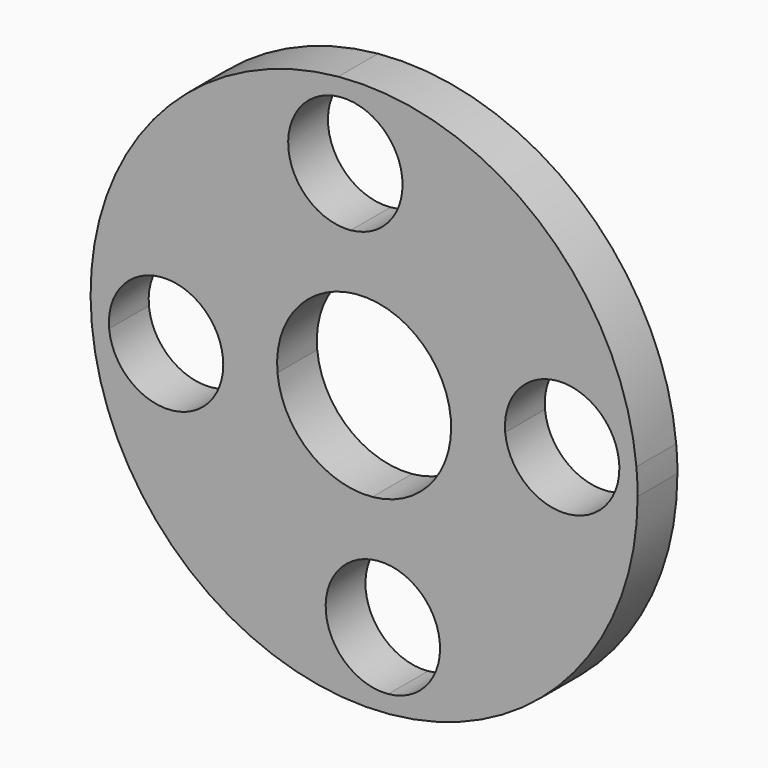
from build123d import *

# Parameters (mm, degrees)
F1_DEPTH = 1


with BuildPart() as f1:
    # F0 (on Front) → F1 (new body)
    with BuildSketch(Plane.XZ):
        with BuildLine():
            ThreePointArc((-5.4755023983, -0.5185301207), (-3.5051087117, -4.2384210408), (0.5185301207, -5.4755023983))
            ThreePointArc((0.5185301207, -5.4755023983), (-1.1162060212, -4.123600864), (0.2356955176, -2.4888647257))
            ThreePointArc((0.2356955176, -2.4888647257), (-1.593231229, -1.9265550215), (-2.4888647264, -0.2356955103))
            ThreePointArc((-2.4888647264, -0.2356955103), (-2.4838547844, -0.3063252949), (-2.4821835624, -0.3771128151))
            ThreePointArc((-2.4821835624, -0.3771128151), (-3.9113960418, -1.875441593), (-5.4755023983, -0.5185301207))
        make_face()
        with BuildLine():
            ThreePointArc((-0.2356955143, 2.488864726), (-1.8704316512, 3.8407662592), (-0.5185301207, 5.4755023983))
            ThreePointArc((-0.5185301207, 5.4755023983), (-4.2384210408, 3.5051087117), (-5.4755023983, -0.5185301207))
            ThreePointArc((-5.4755023983, -0.5185301207), (-4.1236008676, 1.1162060209), (-2.4888647264, -0.2356955103))
            ThreePointArc((-2.4888647264, -0.2356955103), (-1.9265550204, 1.5932312303), (-0.2356955143, 2.488864726))
        make_face()
        with BuildLine():
            ThreePointArc((2.4888647264, 0.2356955103), (3.8407662572, 1.870431651), (5.4755023983, 0.5185301207))
            ThreePointArc((5.4755023983, 0.5185301207), (3.5051087117, 4.2384210408), (-0.5185301207, 5.4755023983))
            ThreePointArc((-0.5185301207, 5.4755023983), (0.6323112885, 5.0917163376), (1.1228871849, 3.9821835624))
            ThreePointArc((1.1228871849, 3.9821835624), (0.7324199585, 2.9727594571), (-0.2356955143, 2.488864726))
            ThreePointArc((-0.2356955143, 2.488864726), (1.5932312303, 1.9265550204), (2.4888647264, 0.2356955103))
        make_face()
        with BuildLine():
            ThreePointArc((0.5185301207, -5.4755023983), (4.0682868424, -3.7012217129), (5.5, 0))
            ThreePointArc((5.5, 0), (5.4938721859, 0.2595542422), (5.4755023983, 0.5185301207))
            ThreePointArc((5.4755023983, 0.5185301207), (5.4805123404, 0.4479003357), (5.4821835624, 0.3771128151))
            ThreePointArc((5.4821835624, 0.3771128151), (4.0529710825, -1.1212159629), (2.4888647264, 0.2356955103))
            ThreePointArc((2.4888647264, 0.2356955103), (2.4972146299, 0.1179792015), (2.5, 0))
            ThreePointArc((2.5, 0), (1.8492212948, -1.6823735028), (0.2356955176, -2.4888647257))
            ThreePointArc((0.2356955176, -2.4888647257), (1.3865369216, -2.87265079), (1.8771128151, -3.9821835624))
            ThreePointArc((1.8771128151, -3.9821835624), (1.4866455903, -4.9916076659), (0.5185301207, -5.4755023983))
        make_face()
        with BuildLine():
            Line((-5.1270613366, -0.4855327494), (-5.4755023983, -0.5185301207))
            ThreePointArc((-5.4755023983, -0.5185301207), (-3.9113960418, -1.875441593), (-2.4821835624, -0.3771128151))
            ThreePointArc((-2.4821835624, -0.3771128151), (-2.4838547844, -0.3063252949), (-2.4888647264, -0.2356955103))
            Line((-2.4888647265, -0.2356955094), (-2.8373057882, -0.2686928807))
            ThreePointArc((-2.8373057882, -0.2686928807), (-2.8334648326, -0.3228423826), (-2.8321835624, -0.3771128151))
            ThreePointArc((-2.8321835624, -0.3771128151), (-3.9279131299, -1.5258315448), (-5.1270613366, -0.4855327494))
        make_face()
        with BuildLine():
            ThreePointArc((-2.4888647264, -0.2356955103), (-4.1236008676, 1.1162060209), (-5.4755023983, -0.5185301207))
            Line((-5.4755023983, -0.5185301207), (-5.1270613366, -0.4855327494))
            ThreePointArc((-5.1270613366, -0.4855327494), (-4.0906034967, 0.7677649591), (-2.8373057882, -0.2686928807))
            Line((-2.8373057882, -0.2686928807), (-2.4888647265, -0.2356955094))
        make_face()
        with BuildLine():
            Line((-0.4855327494, 5.1270613366), (-0.5185301207, 5.4755023983))
            ThreePointArc((-0.5185301207, 5.4755023983), (-1.8704316512, 3.8407662592), (-0.2356955143, 2.488864726))
            Line((-0.2356955094, 2.4888647265), (-0.2686928807, 2.8373057882))
            ThreePointArc((-0.2686928807, 2.8373057882), (-1.5219905893, 3.8737636281), (-0.4855327494, 5.1270613366))
        make_face()
        with BuildLine():
            ThreePointArc((1.1228871849, 3.9821835624), (0.6323112885, 5.0917163376), (-0.5185301207, 5.4755023983))
            Line((-0.5185301207, 5.4755023983), (-0.4855327494, 5.1270613366))
            ThreePointArc((-0.4855327494, 5.1270613366), (0.3967789976, 4.8328253567), (0.7728871849, 3.9821835624))
            ThreePointArc((0.7728871849, 3.9821835624), (0.4735289793, 3.2082917497), (-0.2686928807, 2.8373057882))
            Line((-0.2686928807, 2.8373057882), (-0.2356955094, 2.4888647265))
            ThreePointArc((-0.2356955143, 2.488864726), (0.7324199585, 2.9727594571), (1.1228871849, 3.9821835624))
        make_face()
        with BuildLine():
            Line((0.4855327494, -5.1270613366), (0.5185301207, -5.4755023983))
            ThreePointArc((0.5185301207, -5.4755023983), (1.4866455903, -4.9916076659), (1.8771128151, -3.9821835624))
            ThreePointArc((1.8771128151, -3.9821835624), (1.3865369216, -2.87265079), (0.2356955176, -2.4888647257))
            Line((0.2356955094, -2.4888647265), (0.2686928807, -2.8373057882))
            ThreePointArc((0.2686928807, -2.8373057882), (1.1510046278, -3.1315417681), (1.5271128151, -3.9821835624))
            ThreePointArc((1.5271128151, -3.9821835624), (1.2277546094, -4.7560753751), (0.4855327494, -5.1270613366))
        make_face()
        with BuildLine():
            ThreePointArc((0.2356955176, -2.4888647257), (-1.1162060212, -4.123600864), (0.5185301207, -5.4755023983))
            Line((0.5185301207, -5.4755023983), (0.4855327494, -5.1270613366))
            ThreePointArc((0.4855327494, -5.1270613366), (-0.7677649591, -4.0906034967), (0.2686928807, -2.8373057882))
            Line((0.2686928807, -2.8373057882), (0.2356955094, -2.4888647265))
        make_face()
        with BuildLine():
            ThreePointArc((5.4821835624, 0.3771128151), (5.4805123404, 0.4479003357), (5.4755023983, 0.5185301207))
            Line((5.4755023983, 0.5185301207), (5.1270613366, 0.4855327494))
            ThreePointArc((5.1270613366, 0.4855327494), (5.1309022922, 0.4313832475), (5.1321835624, 0.3771128151))
            ThreePointArc((5.1321835624, 0.3771128151), (4.0364539949, -0.7716059147), (2.8373057882, 0.2686928807))
            Line((2.8373057882, 0.2686928807), (2.4888647265, 0.2356955094))
            ThreePointArc((2.4888647264, 0.2356955103), (4.0529710825, -1.1212159629), (5.4821835624, 0.3771128151))
        make_face()
        with BuildLine():
            Line((5.1270613366, 0.4855327494), (5.4755023983, 0.5185301207))
            ThreePointArc((5.4755023983, 0.5185301207), (3.8407662572, 1.870431651), (2.4888647264, 0.2356955103))
            Line((2.4888647265, 0.2356955094), (2.8373057882, 0.2686928807))
            ThreePointArc((2.8373057882, 0.2686928807), (3.8737636281, 1.5219905893), (5.1270613366, 0.4855327494))
        make_face()
        with BuildLine():
            Line((-0.1649868566, 1.7422053086), (-0.2356955094, 2.4888647265))
            ThreePointArc((-0.2356955143, 2.488864726), (-1.9265550204, 1.5932312303), (-2.4888647264, -0.2356955103))
            Line((-2.4888647265, -0.2356955094), (-1.7422053086, -0.1649868566))
            ThreePointArc((-1.7422053086, -0.1649868566), (-1.348588513, 1.1152618628), (-0.1649868566, 1.7422053086))
        make_face()
        with BuildLine():
            Line((1.7422053086, 0.1649868566), (2.4888647265, 0.2356955094))
            ThreePointArc((2.4888647264, 0.2356955103), (1.5932312303, 1.9265550204), (-0.2356955143, 2.488864726))
            Line((-0.2356955094, 2.4888647265), (-0.1649868566, 1.7422053086))
            ThreePointArc((-0.1649868566, 1.7422053086), (1.1152618628, 1.348588513), (1.7422053086, 0.1649868566))
        make_face()
        with BuildLine():
            ThreePointArc((-2.4888647264, -0.2356955103), (-1.593231229, -1.9265550215), (0.2356955176, -2.4888647257))
            Line((0.2356955094, -2.4888647265), (0.1649868566, -1.7422053086))
            ThreePointArc((0.1649868566, -1.7422053086), (-1.1152618628, -1.348588513), (-1.7422053086, -0.1649868566))
            Line((-1.7422053086, -0.1649868566), (-2.4888647265, -0.2356955094))
        make_face()
        with BuildLine():
            ThreePointArc((2.5, 0), (2.4972146299, 0.1179792015), (2.4888647264, 0.2356955103))
            Line((2.4888647265, 0.2356955094), (1.7422053086, 0.1649868566))
            ThreePointArc((1.7422053086, 0.1649868566), (1.748050241, 0.0825854407), (1.75, 0))
            ThreePointArc((1.75, 0), (1.2944549044, -1.1776614541), (0.1649868566, -1.7422053086))
            Line((0.1649868566, -1.7422053086), (0.2356955094, -2.4888647265))
            ThreePointArc((0.2356955176, -2.4888647257), (1.8492212948, -1.6823735028), (2.5, 0))
        make_face()
    extrude(amount=F1_DEPTH)


solid = f1.part
